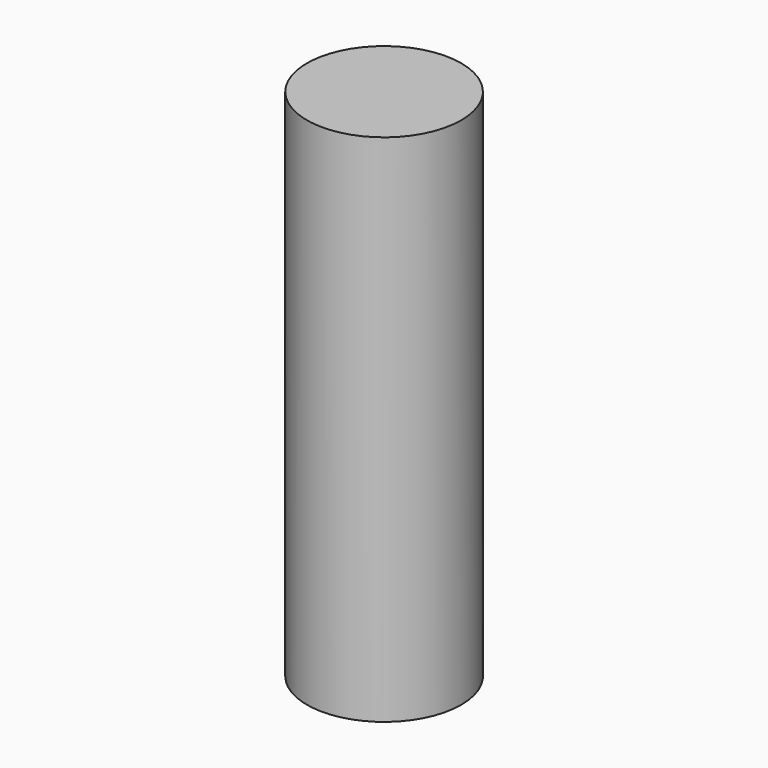
from build123d import *

# Parameters (mm, degrees)
F0_R     = 38.1
F3_DEPTH = 254
F1_R     = 38.1
F1_R_2   = 25.4


with BuildPart() as f3:
    # F0 (on Top) → F3 (new body)
    with BuildSketch(Plane.XY):
        Circle(F0_R)
    extrude(amount=F3_DEPTH)


with BuildPart() as f3b:
    # F1 (on face) → F3, piece 2 (new body)
    with BuildSketch(Plane.XY):
        Circle(F1_R)
        Circle(F1_R_2, mode=Mode.SUBTRACT)
        Circle(F1_R_2)
    extrude(amount=F3_DEPTH)


solid = Compound([f3.part, f3b.part])
